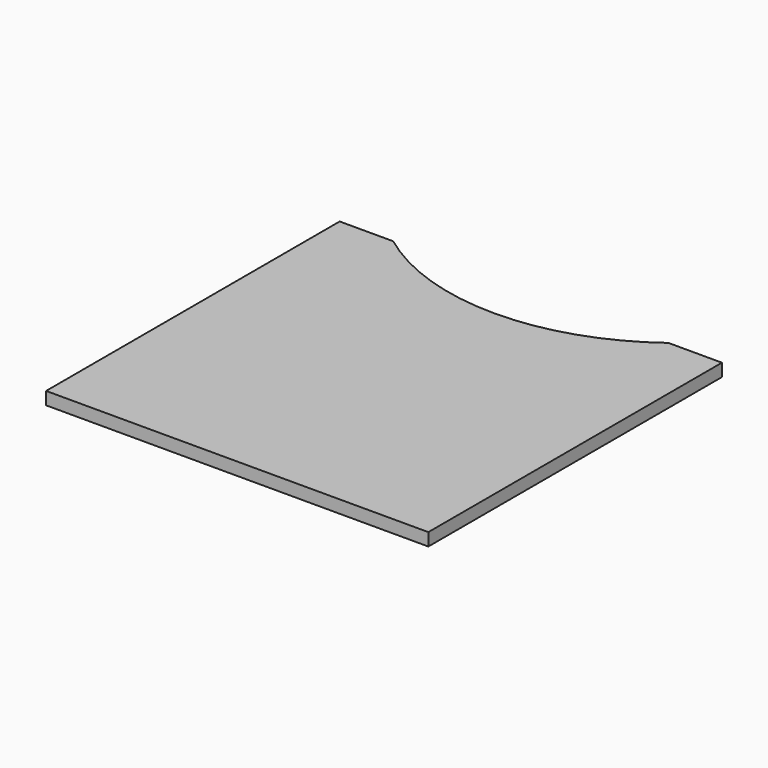
from build123d import *

# Parameters (mm, degrees)
F1_DEPTH = 4.15


with BuildPart() as f1:
    # F0 (on Top) → F1 (new body)
    with BuildSketch(Plane.XY):
        with BuildLine():
            ThreePointArc((45, -60), (0, -75), (-45, -60))
            Line((-45, -60), (-62.5, -60))
            Line((-62.5, -60), (-62.5, -180))
            Line((-62.5, -180), (62.5, -180))
            Line((62.5, -180), (62.5, -60))
            Line((62.5, -60), (45, -60))
        make_face()
    extrude(amount=F1_DEPTH)


solid = f1.part
